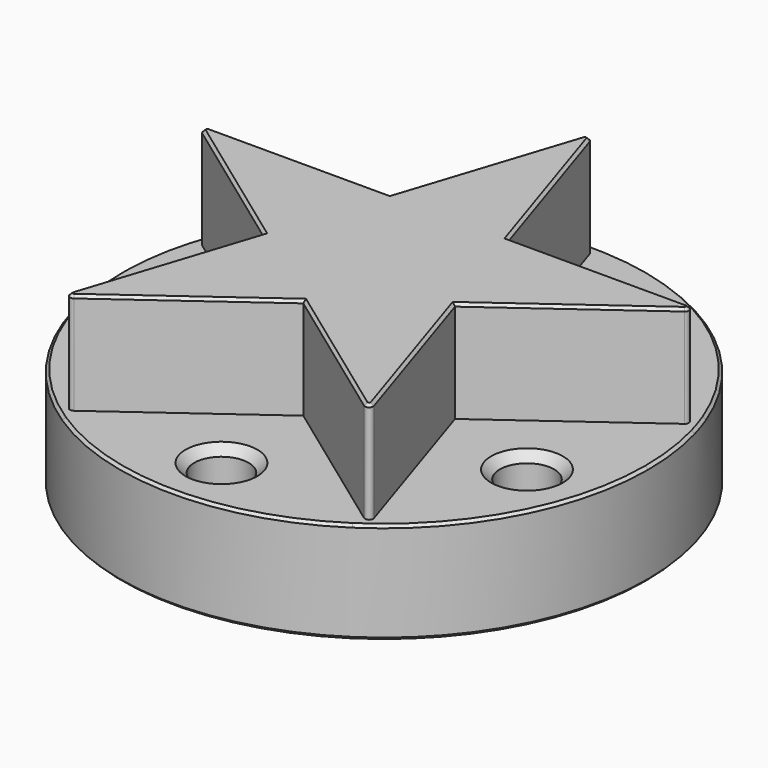
from build123d import *

# Parameters (mm, degrees)
CYLINDER_R       = 24.765
CYLINDER_DEPTH   = 19.05
SKETCH_R         = 25.4
POCKET_DEPTH     = 9.525
HOLE_D           = 5.1
HOLE_DEPTH       = 9.525
HOLE_CSINK_D     = 6.731
HOLE_CSINK_ANGLE = 90
HOLE_TIPS_R      = 2.55
FILLET_R         = 0.381
CHAMFER_SIZE     = 0.254


with BuildPart() as part:
    # Cylinder → Cylinder (join)
    with BuildSketch(Plane.XY):
        Circle(CYLINDER_R)
    extrude(amount=CYLINDER_DEPTH)

    # Sketch (on Face3 of Cylinder) → Pocket (cut)
    with BuildSketch(Plane.XY.offset(19.05)):
        Circle(SKETCH_R)
        Polygon((0, 24.765), (5.560089, 7.652806), (23.552915, 7.652806), (8.996413, -2.923112), (14.556502, -20.035306), (0, -9.459388), (-14.556502, -20.035306), (-8.996413, -2.923112), (-23.552915, 7.652806), (-5.560089, 7.652806), align=None, mode=Mode.SUBTRACT)
    extrude(amount=-POCKET_DEPTH, mode=Mode.SUBTRACT)

    # Hole
    with Locations(Plane.XY.offset(9.525)):
        with Locations((11.197309, 15.411774), (-11.197309, 15.411774), (-18.117627, -5.886774), (0, -19.05), (18.117627, -5.886774)):
            CounterSinkHole(HOLE_D / 2, HOLE_CSINK_D / 2, depth=HOLE_DEPTH, counter_sink_angle=HOLE_CSINK_ANGLE)

    # Hole tips → Hole tip 1 section 0
    with BuildSketch(Plane.XY, mode=Mode.PRIVATE) as hole_tip_1_s0:
        with Locations((11.197309, 15.411774)):
            Circle(HOLE_TIPS_R)
    loft([hole_tip_1_s0.sketch, Vertex(11.197309, 15.411774, -1.532195)], mode=Mode.SUBTRACT)

    # Hole tips → Hole tip 2 section 0
    with BuildSketch(Plane.XY, mode=Mode.PRIVATE) as hole_tip_2_s0:
        with Locations((-11.197309, 15.411774)):
            Circle(HOLE_TIPS_R)
    loft([hole_tip_2_s0.sketch, Vertex(-11.197309, 15.411774, -1.532195)], mode=Mode.SUBTRACT)

    # Hole tips → Hole tip 3 section 0
    with BuildSketch(Plane.XY, mode=Mode.PRIVATE) as hole_tip_3_s0:
        with Locations((-18.117627, -5.886774)):
            Circle(HOLE_TIPS_R)
    loft([hole_tip_3_s0.sketch, Vertex(-18.117627, -5.886774, -1.532195)], mode=Mode.SUBTRACT)

    # Hole tips → Hole tip 4 section 0
    with BuildSketch(Plane.XY, mode=Mode.PRIVATE) as hole_tip_4_s0:
        with Locations((0, -19.05)):
            Circle(HOLE_TIPS_R)
    loft([hole_tip_4_s0.sketch, Vertex(0, -19.05, -1.532195)], mode=Mode.SUBTRACT)

    # Hole tips → Hole tip 5 section 0
    with BuildSketch(Plane.XY, mode=Mode.PRIVATE) as hole_tip_5_s0:
        with Locations((18.117627, -5.886774)):
            Circle(HOLE_TIPS_R)
    loft([hole_tip_5_s0.sketch, Vertex(18.117627, -5.886774, -1.532195)], mode=Mode.SUBTRACT)

    # Fillet
    fillet_edges = [part.edges().sort_by_distance(p)[0] for p in [
        (14.556502, -20.035306, 14.2875),
        (23.552915, 7.652806, 14.2875),
        (0, 24.765, 14.2875),
        (-23.552915, 7.652806, 14.2875),
        (-14.556502, -20.035306, 14.2875),
    ]]
    fillet(fillet_edges, radius=FILLET_R)

    # Chamfer
    chamfer_edges = [part.edges().sort_by_distance(p)[0] for p in [
        (0, -24.765, 9.525),
        (-6.803925, -14.402729, 19.05),
        (-15.800338, 2.020229, 19.05),
        (-2.961221, 15.6513, 19.05),
        (13.970203, 7.652806, 19.05),
        (11.595281, -10.921606, 19.05),
        (-24.765, 0, 0),
    ]]
    chamfer(chamfer_edges, length=CHAMFER_SIZE)


solid = part.part
